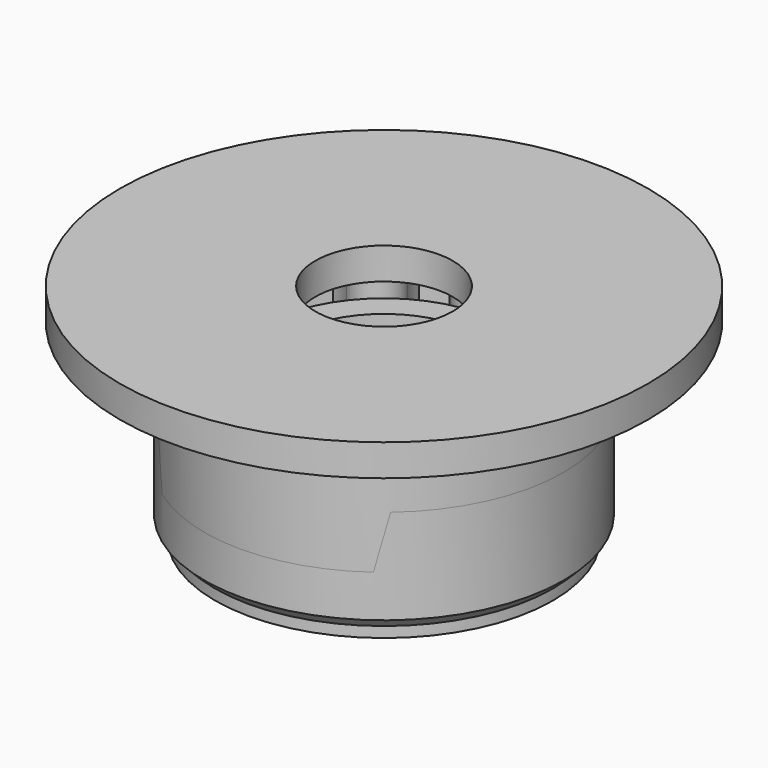
from build123d import *

# Parameters (mm, degrees)
PAD004_DEPTH      = 20
PAD004_DEPTH_BACK = 20
SKETCH_R          = 20
PAD_DEPTH         = 15
SKETCH001_R       = 20
SKETCH001_R_2     = 15.7
PAD001_DEPTH      = 15
SKETCH002_R       = 20
SKETCH002_R_2     = 17
POCKET_DEPTH      = 15
SKETCH003_R       = 25
SKETCH003_R_2     = 6.5
PAD002_DEPTH      = 3
SKETCH004_R       = 17
SKETCH004_R_2     = 15.7
PAD003_DEPTH      = 2
CHAMFER_SIZE      = 1
SKETCH006_R       = 16
SKETCH006_R_2     = 9
PAD005_DEPTH      = 3
SKETCH007_R       = 11.5
SKETCH007_R_2     = 9
PAD006_DEPTH      = 11
SKETCH008_R       = 16
SKETCH008_R_2     = 9
PAD007_DEPTH      = 3


with BuildPart() as body001:
    # Sketch005 → Pad004 (new body, two sides)
    with BuildSketch(Plane.XZ) as pad004_sk:
        Polygon((-25, 8), (-25, -3), (25, -3), (25, 8), (11, 8), (10, 3), (-10, 3), (-11, 8), align=None)
    extrude(amount=PAD004_DEPTH)
    extrude(pad004_sk.sketch, amount=-PAD004_DEPTH_BACK)


with BuildPart() as body:
    # Sketch → Pad (new body)
    with BuildSketch(Plane.XY):
        Circle(SKETCH_R)
        with BuildLine():
            ThreePointArc((10.167973, 9.214823), (11.257777, 11.127264), (11.534091, 13.311011))
            ThreePointArc((11.534091, 13.311011), (9.411904, 12.72674), (7.674027, 11.375877))
            ThreePointArc((3.571901, 13.249202), (4.921792, 10.777143), (7.674027, 11.375877))
            ThreePointArc((3.571901, 13.249202), (3.454758, 15.447252), (2.506576, 17.433732))
            ThreePointArc((2.506576, 17.433732), (1.03717, 15.794875), (0.305512, 13.718898))
            ThreePointArc((-4.158239, 13.077082), (-1.686132, 11.727209), (0.305512, 13.718898))
            ThreePointArc((-4.158239, 13.077082), (-5.44512, 14.862823), (-7.316711, 16.021305))
            ThreePointArc((-7.316711, 16.021305), (-7.666817, 13.848196), (-7.159961, 11.706218))
            ThreePointArc((-10.568123, 8.753065), (-7.758688, 8.953979), (-7.159961, 11.706218))
            ThreePointArc((-10.568123, 8.753065), (-12.616172, 9.559584), (-14.816988, 9.522295))
            ThreePointArc((-14.816988, 9.522295), (-13.936641, 7.504866), (-12.352198, 5.976935))
            ThreePointArc((-13.6227, 1.649999), (-11.367897, 3.337924), (-12.352198, 5.976935))
            ThreePointArc((-13.6227, 1.649999), (-15.781693, 1.22123), (-17.613, 0))
            ThreePointArc((-17.613, 0), (-15.781693, -1.221231), (-13.6227, -1.65))
            ThreePointArc((-12.352198, -5.976935), (-11.367897, -3.337925), (-13.6227, -1.65))
            ThreePointArc((-12.352198, -5.976935), (-13.936641, -7.504866), (-14.816988, -9.522295))
            ThreePointArc((-14.816988, -9.522295), (-12.616172, -9.559584), (-10.568123, -8.753065))
            ThreePointArc((-7.159961, -11.706193), (-7.758705, -8.953976), (-10.568123, -8.753065))
            ThreePointArc((-7.159961, -11.706193), (-7.666827, -13.848185), (-7.31672, -16.021308))
            ThreePointArc((-7.31672, -16.021308), (-5.445123, -14.862826), (-4.158239, -13.077082))
            ThreePointArc((0.305552, -13.718898), (-1.686111, -11.72719), (-4.158239, -13.077082))
            ThreePointArc((0.305552, -13.718898), (1.037203, -15.794852), (2.50659, -17.433692))
            ThreePointArc((2.50659, -17.433692), (3.454749, -15.447236), (3.57189, -13.249216))
            ThreePointArc((7.674027, -11.375877), (4.921778, -10.77714), (3.57189, -13.249216))
            ThreePointArc((7.674027, -11.375877), (9.411909, -12.726743), (11.534102, -13.311012))
            ThreePointArc((11.534102, -13.311012), (11.257789, -11.12726), (10.167982, -9.214815))
            ThreePointArc((12.606008, -5.421194), (9.967097, -6.405487), (10.167982, -9.214815))
            ThreePointArc((12.606008, -5.421194), (14.798398, -5.618045), (16.899628, -4.962185))
            ThreePointArc((16.899628, -4.962185), (15.486563, -3.274452), (13.535809, -2.25477))
            ThreePointArc((13.535809, 2.254753), (11.847868, -9e-06), (13.535809, -2.25477))
            ThreePointArc((13.535809, 2.254753), (15.48656, 3.274427), (16.899628, 4.962149))
            ThreePointArc((16.899628, 4.962149), (14.798412, 5.618013), (12.606035, 5.42117))
            ThreePointArc((10.167973, 9.214823), (9.967084, 6.405459), (12.606035, 5.42117))
        make_face(mode=Mode.SUBTRACT)
    extrude(amount=PAD_DEPTH)

    # Sketch001 (on Face36 of Pad) → Pad001 (join)
    with BuildSketch(Plane.XY.offset(15)):
        Circle(SKETCH001_R)
        Circle(SKETCH001_R_2, mode=Mode.SUBTRACT)
    extrude(amount=-PAD001_DEPTH)

    # Sketch002 (on Face3 of Pad001) → Pocket (cut)
    with BuildSketch(Plane.XY.offset(15)):
        Circle(SKETCH002_R)
        Circle(SKETCH002_R_2, mode=Mode.SUBTRACT)
    extrude(amount=-POCKET_DEPTH, mode=Mode.SUBTRACT)

    # Sketch003 (on Face60 of Pocket) → Pad002 (join)
    with BuildSketch(Plane.XY.offset(15)):
        Circle(SKETCH003_R)
        Circle(SKETCH003_R_2, mode=Mode.SUBTRACT)
    extrude(amount=PAD002_DEPTH)

    # Sketch004 (on Face49 of Pad002) → Pad003 (join)
    with BuildSketch(Plane(origin=(0, 0, 0), x_dir=(1, 0, 0), z_dir=(0, 0, -1))):
        Circle(SKETCH004_R)
        Circle(SKETCH004_R_2, mode=Mode.SUBTRACT)
    extrude(amount=PAD003_DEPTH)

    # Chamfer
    chamfer_edges = [body.edges().sort_by_distance(p)[0] for p in [
        (-17, 0, -2),
    ]]
    chamfer(chamfer_edges, length=CHAMFER_SIZE)


with BuildPart() as cut:
    # Cut base: copy of Body
    add(body.part)

    # Cut: cut Body001
    add(body001.part, mode=Mode.SUBTRACT)


with BuildPart() as body002:
    # Sketch006 → Pad005 (new body)
    with BuildSketch(Plane.XY):
        Circle(SKETCH006_R)
        Circle(SKETCH006_R_2, mode=Mode.SUBTRACT)
    extrude(amount=-PAD005_DEPTH)

    # Sketch007 (on Face3 of Pad005) → Pad006 (join)
    with BuildSketch(Plane.XY):
        Circle(SKETCH007_R)
        Circle(SKETCH007_R_2, mode=Mode.SUBTRACT)
    extrude(amount=PAD006_DEPTH)

    # Sketch008 (on Face2 of Pad006) → Pad007 (join)
    with BuildSketch(Plane.XY):
        Circle(SKETCH008_R)
        Circle(SKETCH008_R_2, mode=Mode.SUBTRACT)
    extrude(amount=PAD007_DEPTH)


with BuildPart() as fusion:
    # Common base: copy of Body
    add(body.part)

    # Common: intersect Body001
    add(body001.part, mode=Mode.INTERSECT)

    # Fusion: union Body002
    add(body002.part)


solid = Compound([cut.part, fusion.part])
